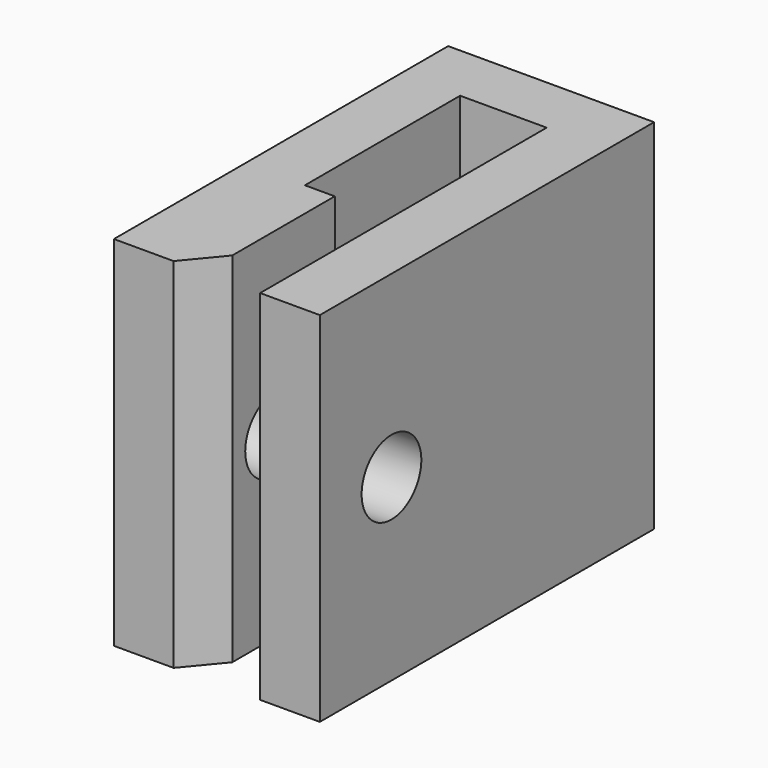
from build123d import *

# Parameters (mm, degrees)
F1_DEPTH = 12
F2_R     = 1.25
F3_DEPTH = 25


with BuildPart() as f1:
    # F0 (on Top) → F1 (new body)
    with BuildSketch(Plane.XY):
        Polygon((-8.13678, -6.502725), (-6.13678, -6.502725), (-6.13678, -1.002725), (-6.13678, 5.497275), (-3.23678, 5.497275), (-3.23678, -6.502725), (-1.23678, -6.502725), (-1.23678, 7.497275), (-8.13678, 7.497275), align=None)
        Polygon((-6.13678, -1.002725), (-6.13678, -6.502725), (-5.13678, -5.295739), (-5.13678, -1.002725), align=None)
    extrude(amount=F1_DEPTH)

    # F2 (on face) → F3 (cut)
    with BuildSketch(Plane(origin=(-8.13678, 0, 0), x_dir=(0, -1, 0), z_dir=(-1, 0, 0))):
        with Locations((3.502725, 6)):
            Circle(F2_R)
    extrude(amount=-F3_DEPTH, mode=Mode.SUBTRACT)


solid = f1.part
